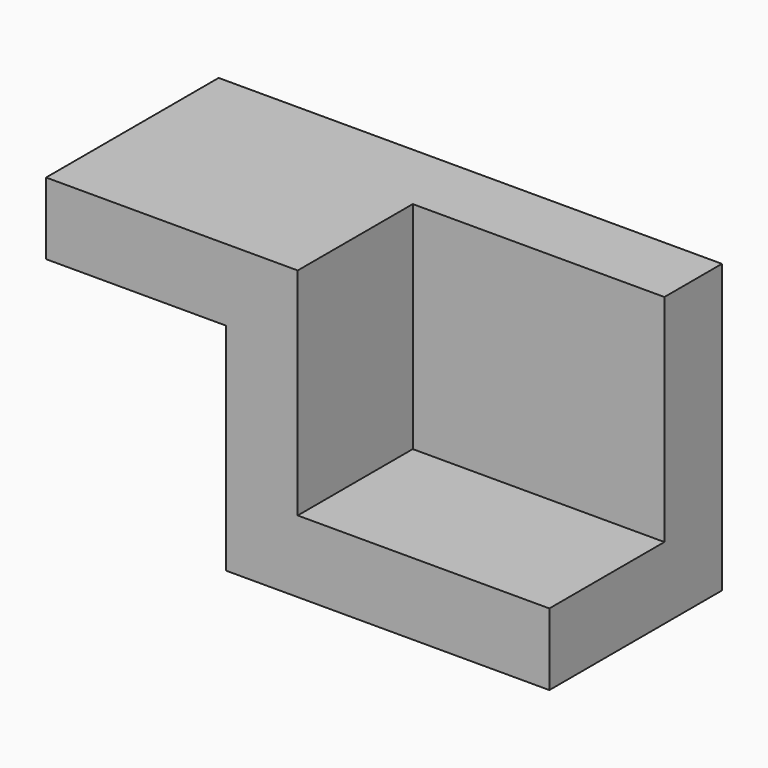
from build123d import *

# Parameters (mm, degrees)
F0_W     = 70
F0_H     = 40
F1_DEPTH = 30
F3_DEPTH = 20
F4_W     = 25
F4_H     = 30
F5_DEPTH = 30.001


with BuildPart() as f1:
    # F0 (on Front) → F1 (new body)
    with BuildSketch(Plane.XZ):
        Rectangle(F0_W, F0_H)
    extrude(amount=F1_DEPTH)

    # F2 (on face) → F3 (cut)
    with BuildSketch(Plane.XZ.offset(30)):
        Polygon((35, 0), (35, 20), (0, 20), (0, 4.09944), (0, 0), (0, -10), (35, -10), align=None)
    extrude(amount=-F3_DEPTH, mode=Mode.SUBTRACT)

    # F4 (on face) → F5 (cut, through all)
    with BuildSketch(Plane.XZ.offset(30)):
        with Locations((-22.5, -5)):
            Rectangle(F4_W, F4_H)
    extrude(amount=-F5_DEPTH, mode=Mode.SUBTRACT)


solid = f1.part
